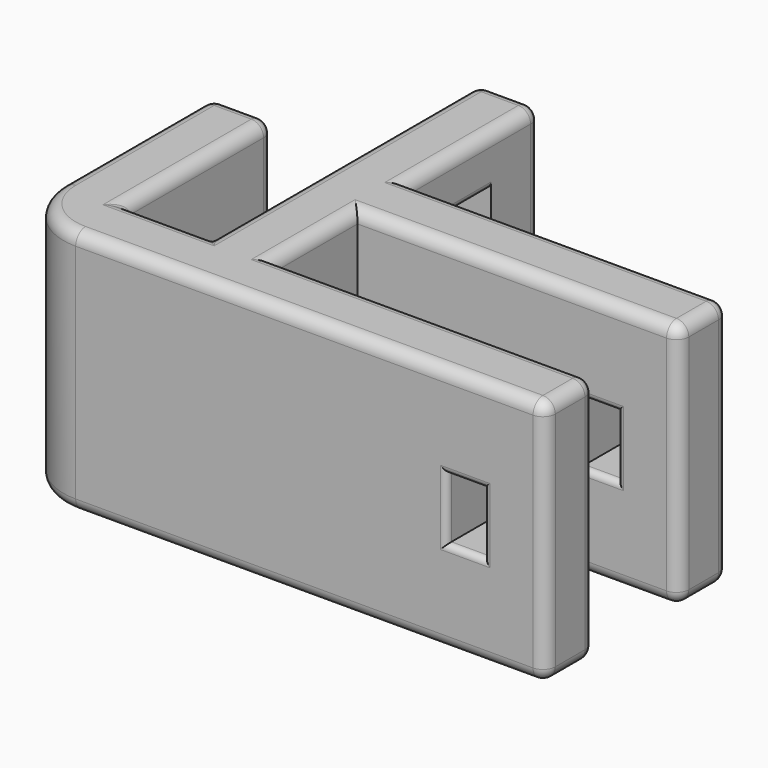
from build123d import *

# Parameters (mm, degrees)
PAD_DEPTH       = 20
FILLET_R        = 5
FILLET001_R     = 1
SKETCH001_W     = 5
SKETCH001_H     = 3
POCKET_DEPTH    = 31.001
FILLET002_R     = 0.5
SKETCH002_W     = 3
SKETCH002_H     = 5
POCKET001_DEPTH = 18.501
FILLET003_R     = 0.5


with BuildPart() as part:
    # Sketch → Pad (new body)
    with BuildSketch(Plane.XY):
        Polygon((5, 20), (5, 5), (12, 5), (12, 32), (17, 32), (17, 18.5), (43, 18.5), (43, 13.5), (17, 13.5), (17, 5), (43, 5), (43, 0), (0, 0), (0, 20), align=None)
    extrude(amount=PAD_DEPTH)

    # Fillet
    fillet_edges = [part.edges().sort_by_distance(p)[0] for p in [
        (0, 0, 10),
    ]]
    fillet(fillet_edges, radius=FILLET_R)

    # Fillet001
    fillet001_edges = [part.edges().sort_by_distance(p)[0] for p in [
        (0, 20, 10),
        (0, 12.5, 20),
        (0, 12.5, 0),
        (2.5, 20, 20),
        (2.5, 20, 0),
        (5, 20, 10),
        (12, 32, 10),
        (12, 18.5, 20),
        (8.5, 5, 20),
        (5, 12.5, 20),
        (17, 25.25, 20),
        (17, 32, 10),
        (30, 18.5, 0),
        (43, 18.5, 10),
        (30, 18.5, 20),
        (24, 0, 20),
        (1.464466, 1.464466, 20),
        (43, 2.5, 20),
        (30, 5, 20),
        (17, 9.25, 20),
        (30, 13.5, 20),
        (43, 16, 20),
        (14.5, 32, 20),
        (12, 18.5, 0),
        (17, 25.25, 0),
        (30, 13.5, 0),
        (17, 9.25, 0),
        (30, 5, 0),
        (8.5, 5, 0),
        (24, 0, 0),
        (43, 13.5, 10),
        (43, 16, 0),
        (43, 2.5, 0),
        (43, 0, 10),
        (43, 5, 10),
        (5, 12.5, 0),
    ]]
    fillet(fillet001_edges, radius=FILLET001_R)

    # Sketch001 (on Face47 of Fillet001) → Pocket (cut, through all)
    with BuildSketch(Plane(origin=(12, 0, 0), x_dir=(0, -1, 0), z_dir=(-1, 0, 0))):
        with Locations((-24.5, 5.5)):
            Rectangle(SKETCH001_W, SKETCH001_H)
        with Locations((-24.5, 14.5)):
            Rectangle(SKETCH001_W, SKETCH001_H)
    extrude(amount=-POCKET_DEPTH, mode=Mode.SUBTRACT)

    # Fillet002
    fillet002_edges = [part.edges().sort_by_distance(p)[0] for p in [
        (12, 22, 5.5),
        (12, 24.5, 16),
        (12, 27, 5.5),
        (12, 24.5, 4),
        (12, 24.5, 13),
        (12, 27, 14.5),
        (12, 5, 10),
        (12, 22, 14.5),
        (17, 27, 5.5),
        (17, 24.5, 16),
        (17, 22, 5.5),
        (17, 24.5, 4),
        (42.707107, 18.207107, 1),
        (17, 24.5, 7),
        (5, 5, 10),
        (42, 18.5, 10),
    ]]
    fillet(fillet002_edges, radius=FILLET002_R)

    # Sketch002 (on Face46 of Fillet002) → Pocket001 (cut, through all)
    with BuildSketch(Plane(origin=(0, 18.5, 0), x_dir=(-1, 0, 0), z_dir=(0, 1, 0))):
        with Locations((-36.5, 10)):
            Rectangle(SKETCH002_W, SKETCH002_H)
    extrude(amount=-POCKET001_DEPTH, mode=Mode.SUBTRACT)

    # Fillet003
    fillet003_edges = [part.edges().sort_by_distance(p)[0] for p in [
        (35, 18.5, 10),
        (36.5, 18.5, 7.5),
        (38, 18.5, 10),
        (36.5, 18.5, 12.5),
        (36.5, 5, 7.5),
        (38, 5, 10),
        (35, 5, 10),
        (36.5, 5, 12.5),
        (36.5, 0, 12.5),
        (35, 0, 10),
        (36.5, 0, 7.5),
        (38, 0, 10),
        (35, 13.5, 10),
        (36.5, 13.5, 12.5),
        (38, 13.5, 10),
        (36.5, 13.5, 7.5),
    ]]
    fillet(fillet003_edges, radius=FILLET003_R)


solid = part.part
